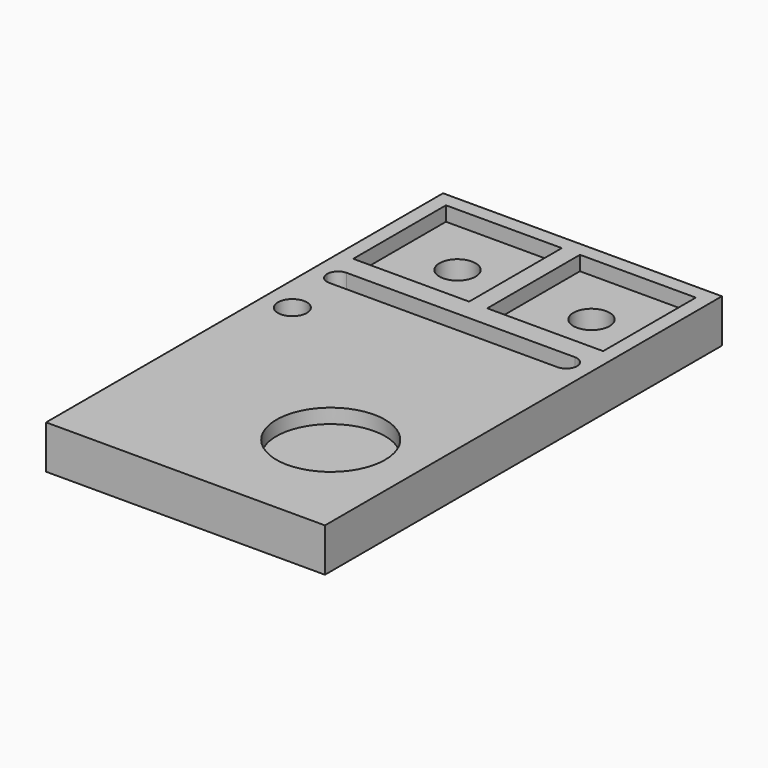
from build123d import *

# Parameters (mm, degrees)
F0_W      = 38.5
F0_H      = 68.5
F1_DEPTH  = 6
F2_W      = 16
F2_H      = 16
F3_DEPTH  = 2
F5_DEPTH  = 2
F6_R      = 7.5
F7_DEPTH  = 2
F8_R      = 2
F9_DEPTH  = 8
F10_R     = 2.5
F11_DEPTH = 25
F12_R     = 2.5
F13_DEPTH = 25


with BuildPart() as f1:
    # F0 (on Top) → F1 (new body)
    with BuildSketch(Plane.XY):
        Rectangle(F0_W, F0_H)
    extrude(amount=F1_DEPTH)

    # F2 (on face) → F3 (cut)
    with BuildSketch(Plane.XY.offset(6)):
        with Locations((-9.25, 24.2511786477)):
            Rectangle(F2_W, F2_H)
        with Locations((9.25, 24.25)):
            Rectangle(F2_W, F2_H)
    extrude(amount=-F3_DEPTH, mode=Mode.SUBTRACT)

    # F4 (on face) → F5 (cut)
    with BuildSketch(Plane.XY.offset(6)):
        with BuildLine():
            Line((15.7500000197, 13.2511786477), (-15.75, 13.2511786477))
            ThreePointArc((-15.75, 13.2511786477), (-14.6893398282, 12.8118388195), (-14.25, 11.7511786477))
            ThreePointArc((-14.25, 11.7511786477), (-14.6893398282, 10.6905184759), (-15.75, 10.2511786477))
            Line((-15.75, 10.2511786477), (15.7500000167, 10.2511786477))
            ThreePointArc((15.7500000167, 10.2511786477), (14.25, 11.7511786492), (15.7500000197, 13.2511786477))
        make_face()
        with BuildLine():
            ThreePointArc((-14.25, 11.7511786477), (-14.6893398282, 12.8118388195), (-15.75, 13.2511786477))
            ThreePointArc((-15.75, 13.2511786477), (-16.8106601718, 12.8118388195), (-17.25, 11.7511786477))
            ThreePointArc((-17.25, 11.7511786477), (-16.8106601718, 10.6905184759), (-15.75, 10.2511786477))
            ThreePointArc((-15.75, 10.2511786477), (-14.6893398282, 10.6905184759), (-14.25, 11.7511786477))
        make_face()
        with BuildLine():
            ThreePointArc((17.25, 11.7511786477), (16.8106601788, 12.8118388125), (15.7500000197, 13.2511786477))
            ThreePointArc((15.7500000197, 13.2511786477), (14.25, 11.7511786492), (15.7500000167, 10.2511786477))
            ThreePointArc((15.7500000167, 10.2511786477), (16.8106601777, 10.6905184818), (17.25, 11.7511786477))
        make_face()
    extrude(amount=-F5_DEPTH, mode=Mode.SUBTRACT)

    # F6 (on face) → F7 (cut)
    with BuildSketch(Plane.XY.offset(6)):
        with Locations((7.25, -18.25)):
            Circle(F6_R)
    extrude(amount=-F7_DEPTH, mode=Mode.SUBTRACT)

    # F8 (on face) → F9 (cut)
    with BuildSketch(Plane.XY.offset(6)):
        with Locations((-15.25, 3.2511786477)):
            Circle(F8_R)
    extrude(amount=-F9_DEPTH, mode=Mode.SUBTRACT)

    # F10 (on face) → F11 (cut)
    with BuildSketch(Plane.XY.offset(4)):
        with Locations((-9.25, 24.2511786477)):
            Circle(F10_R)
    extrude(amount=-F11_DEPTH, mode=Mode.SUBTRACT)

    # F12 (on face) → F13 (cut)
    with BuildSketch(Plane.XY.offset(4)):
        with Locations((9.25, 24.25)):
            Circle(F12_R)
    extrude(amount=-F13_DEPTH, mode=Mode.SUBTRACT)


solid = f1.part
